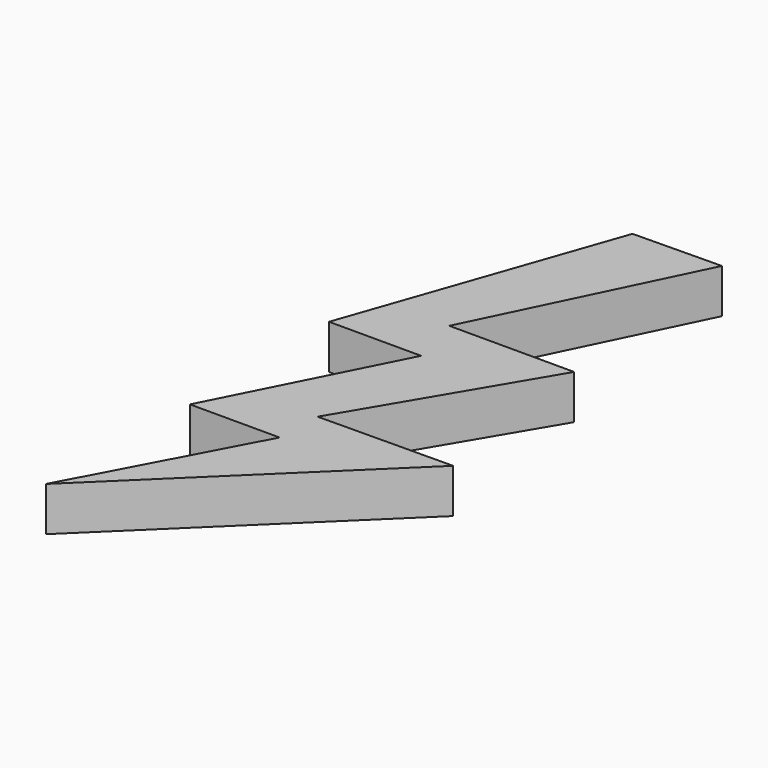
from build123d import *

# Parameters (mm, degrees)
PAD_DEPTH = 5


with BuildPart() as part:
    # Sketch → Pad (new body)
    with BuildSketch(Plane.XY):
        Polygon((20.120491, 69.670341), (9.709526, 39.807331), (20.120491, 39.807331), (9.983502, 19.807333), (20.120491, 19.807333), (9.57254, 0), (35.462955, 25.149799), (20.257477, 25.012814), (32.586239, 45.834728), (18.476652, 45.834728), (30.120483, 69.807335), align=None)
    extrude(amount=PAD_DEPTH)


solid = part.part
